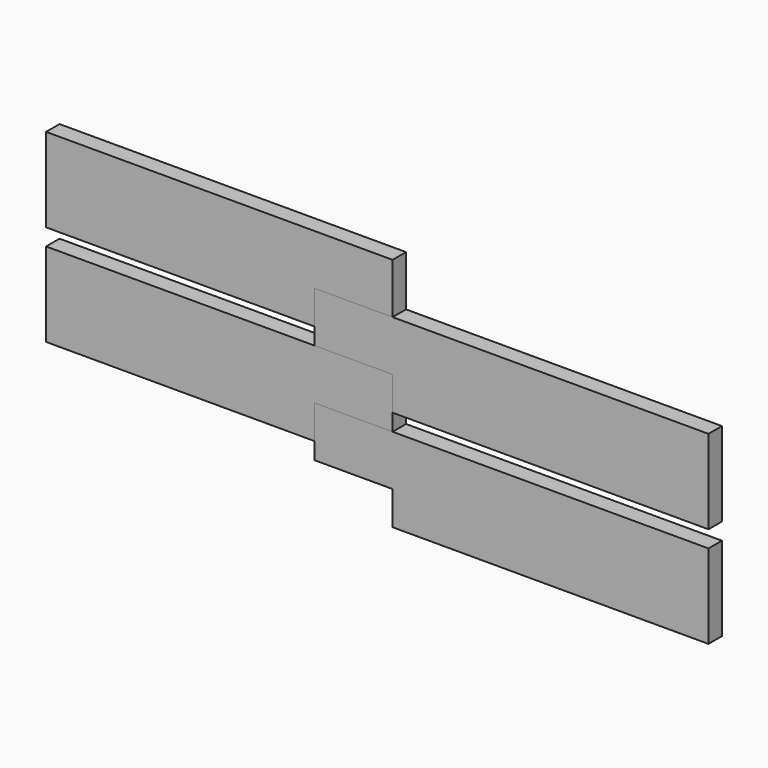
from build123d import *

# Parameters (mm, degrees)
F0_W     = 9.267886
F0_H     = 4
F1_DEPTH = 2
F2_DEPTH = 2


with BuildPart() as f1:
    # F0 (on Front) → F1 (new body)
    with BuildSketch(Plane.XZ):
        Polygon((-31.037049, 181.852779), (-62.984388, 181.852779), (-62.984388, 171.852779), (-31.037049, 171.852779), (-31.037049, 175.852779), (-21.769163, 175.852779), (-21.769163, 177.852779), (-31.037049, 177.852779), align=None)
        with Locations((-26.403106, 179.852779)):
            Rectangle(F0_W, F0_H)
        Polygon((-62.984388, 183.852779), (-31.037049, 183.852779), (-31.037049, 187.852779), (-21.769163, 187.852779), (-21.769163, 189.852779), (-31.037049, 189.852779), (-31.037049, 193.852779), (-62.984388, 193.852779), align=None)
        with Locations((-26.403106, 191.852779)):
            Rectangle(F0_W, F0_H)
    extrude(amount=F1_DEPTH)


with BuildPart() as f2:
    # F0 (on Front) → F2 (new body)
    with BuildSketch(Plane.XZ):
        Polygon((-31.037049, 183.852779), (-31.037049, 181.852779), (-21.769163, 181.852779), (-21.769163, 177.852779), (15.800009, 177.852779), (15.800009, 187.852779), (-21.769163, 187.852779), (-21.769163, 183.852779), align=None)
        with Locations((-26.403106, 185.852779)):
            Rectangle(F0_W, F0_H)
        Polygon((-21.769163, 171.852779), (-31.037049, 171.852779), (-31.037049, 169.852779), (-21.769163, 169.852779), (-21.769163, 165.852779), (15.800009, 165.852779), (15.800009, 175.852779), (-21.769163, 175.852779), align=None)
        with Locations((-26.403106, 173.852779)):
            Rectangle(F0_W, F0_H)
    extrude(amount=F2_DEPTH)


solid = Compound([f1.part, f2.part])
